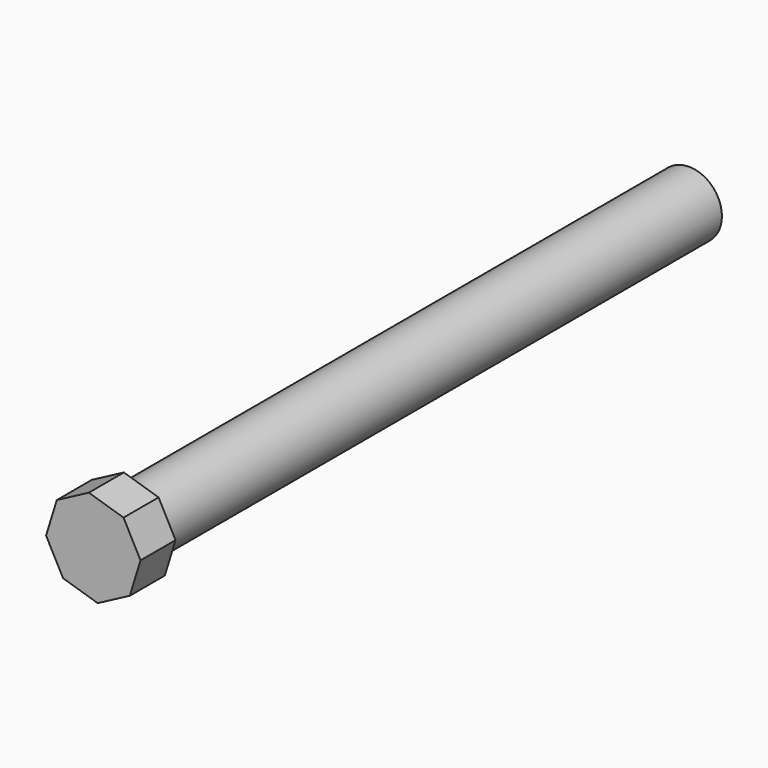
from build123d import *

# Parameters (mm, degrees)
F1_R     = 4.7625
F2_DEPTH = 101.6
F3_DEPTH = 6.35


with BuildPart() as f2:
    # F1 (on Front) → F2 (new body)
    with BuildSketch(Plane.XZ):
        Circle(F1_R)
    extrude(amount=-F2_DEPTH)

    # F0 (on Front) → F3 (join)
    with BuildSketch(Plane.XZ):
        Polygon((6.84318, 0.641586), (4.38519, 5.292529), (-0.641586, 6.84318), (-5.292529, 4.38519), (-6.84318, -0.641586), (-4.38519, -5.292529), (0.641586, -6.84318), (5.292529, -4.38519), align=None)
    extrude(amount=F3_DEPTH)


solid = f2.part
